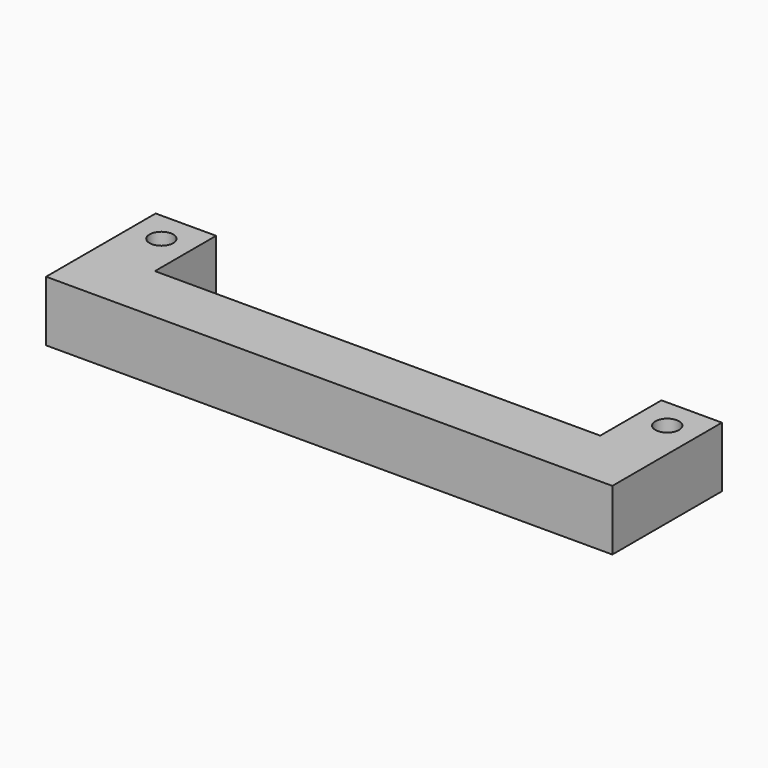
from build123d import *

# Parameters (mm, degrees)
PAD_DEPTH    = 7.9
SKETCH001_R  = 1.55
POCKET_DEPTH = 7.901


with BuildPart() as part:
    # Sketch → Pad (new body)
    with BuildSketch(Plane.XY):
        Polygon((-37, 17.9), (-37, 0), (37, 0), (37, 17.9), (29.1, 17.9), (29.1, 7.9), (-29.1, 7.9), (-29.1, 17.9), align=None)
    extrude(amount=PAD_DEPTH)

    # Sketch001 (on Face10 of Pad) → Pocket (cut, through all)
    with BuildSketch(Plane.XY.offset(7.9)):
        with Locations((33.05, 13.9)):
            Circle(SKETCH001_R)
        with Locations((-33.05, 13.9)):
            Circle(SKETCH001_R)
    extrude(amount=-POCKET_DEPTH, mode=Mode.SUBTRACT)


solid = part.part
